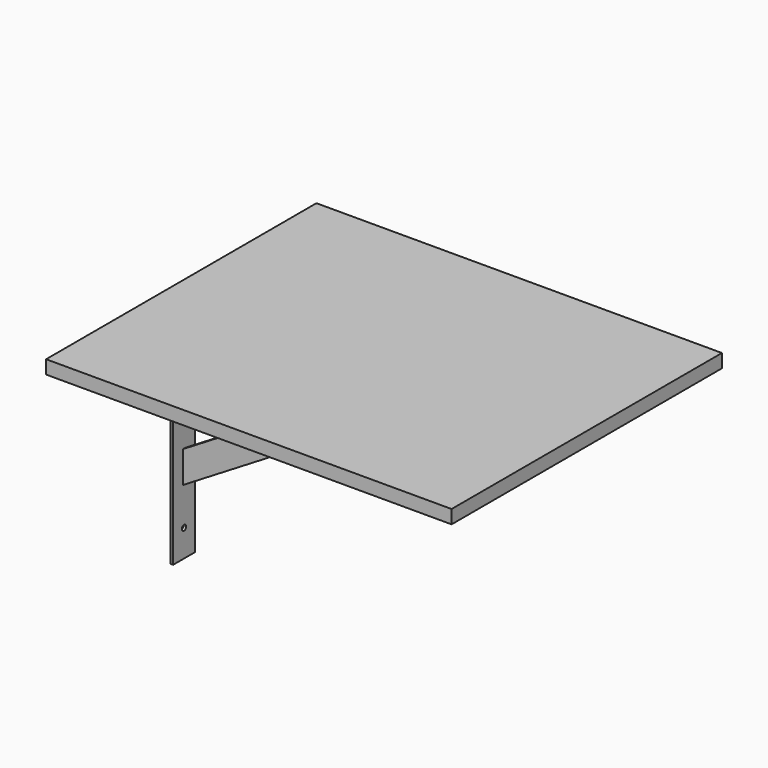
from build123d import *

# Parameters (mm, degrees)
F1_DEPTH = 25.4
F2_DEPTH = 2.54
F3_DEPTH = 317.5
F4_R     = 5.08
F6_DEPTH = 5.08
F5_R     = 5.08
F7_DEPTH = 5.08


with BuildPart() as f1:
    # F0 (on Front) → F1 (new body, symmetric)
    with BuildSketch(Plane.XZ):
        Polygon((427.613177, 365.038462), (-29.586823, 365.038462), (-29.586823, 85.638462), (-24.506823, 85.638462), (-24.506823, 115.34816), (-24.506823, 359.958462), (378.647192, 359.958462), (427.613177, 359.958462), align=None)
        Polygon((580.013177, 365.038462), (427.613177, 365.038462), (427.613177, 359.958462), (476.579162, 359.958462), (580.013177, 359.958462), align=None)
        Polygon((-24.506823, 85.638462), (-29.586823, 85.638462), (-29.586823, -66.761538), (-24.506823, -66.761538), (-24.506823, 55.928763), align=None)
    extrude(amount=F1_DEPTH, both=True)

    # F0 (on Front) → F2 (join, symmetric)
    with BuildSketch(Plane.XZ):
        Polygon((-24.506823, 115.34816), (-24.506823, 85.638462), (427.613177, 359.958462), (378.647192, 359.958462), align=None)
        Polygon((427.613177, 359.958462), (-24.506823, 85.638462), (-24.506823, 55.928763), (-11.331146, 63.922994), (440.788854, 338.242994), (476.579162, 359.958462), align=None)
    extrude(amount=F2_DEPTH, both=True)

    # F4 (on face) → F6 (cut)
    with BuildSketch(Plane.YZ.offset(-24.506823)):
        with Locations((0, 309.158462)):
            Circle(F4_R)
        with Locations((0, -15.961538)):
            Circle(F4_R)
        with Locations((0, 207.558462)):
            Circle(F4_R)
    extrude(amount=-F6_DEPTH, mode=Mode.SUBTRACT)

    # F5 (on face) → F7 (cut)
    with BuildSketch(Plane(origin=(0, 0, 359.958462), x_dir=(1, 0, 0), z_dir=(0, 0, -1))):
        with Locations((26.293177, 0)):
            Circle(F5_R)
        with Locations((529.213177, 0)):
            Circle(F5_R)
    extrude(amount=-F7_DEPTH, mode=Mode.SUBTRACT)


with BuildPart() as f3:
    # F0 (on Front) → F3 (new body, symmetric)
    with BuildSketch(Plane.XZ):
        Polygon((-29.586823, 390.438462), (-29.586823, 365.038462), (427.613177, 365.038462), (580.013177, 365.038462), (732.413177, 365.038462), (732.413177, 390.438462), align=None)
    extrude(amount=F3_DEPTH, both=True)


solid = Compound([f1.part, f3.part])
